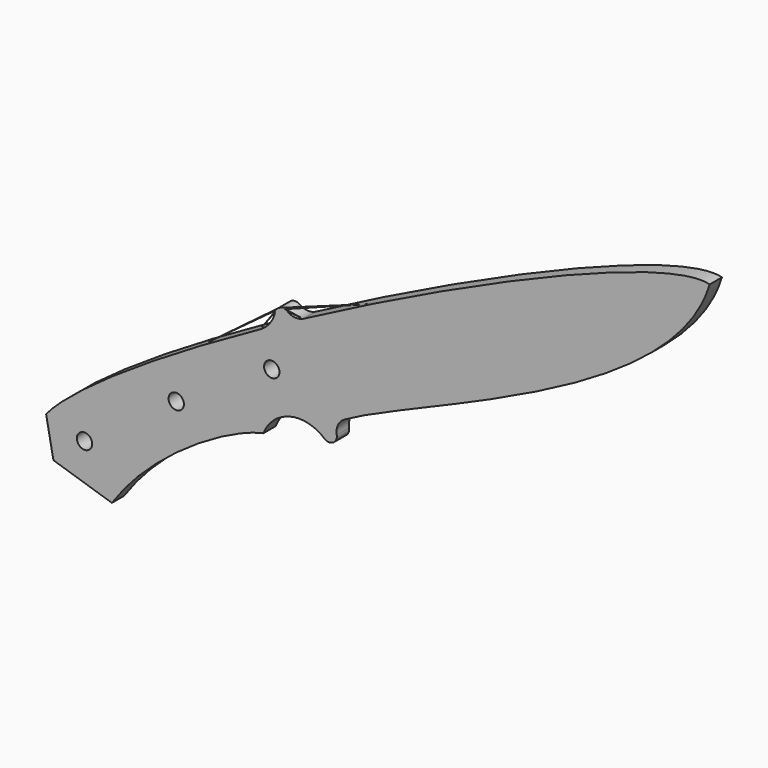
from build123d import *

# Parameters (mm, degrees)
F2_DEPTH = 6.35
F3_R     = 3.175
F4_DEPTH = 6.351


with BuildPart() as f2:
    # F1 (on Front) → F2 (new body)
    with BuildSketch(Plane.XZ):
        with BuildLine():
            add(Edge.make_bspline(
                [(6.055434, -26.960964), (36.11994, -9.76876), (142.355109, 21.639892), (157.20883, 71.411878)],
                knots=[6.343497, 6.343497, 6.343497, 6.343497, 183.773328, 183.773328, 183.773328, 183.773328], degree=3))
            add(Edge.make_bspline(
                [(157.20883, 71.411878), (140.229825, 76.100313), (59.48711, 41.521585), (-10.778349, 4.286915)],
                knots=[0, 0, 0, 0, 180.643576, 180.643576, 180.643576, 180.643576], degree=3))
            add(Edge.make_bspline(
                [(-10.778349, 4.286915), (-16.87327, 1.05713), (-22.889359, -2.192639), (-28.778164, -5.438497)],
                knots=[180.643576, 180.643576, 180.643576, 180.643576, 196.312844, 196.312844, 196.312844, 196.312844], degree=3))
            add(Edge.make_bspline(
                [(-28.778164, -5.438497), (-70.206457, -28.273415), (-105.335108, -50.91478), (-117.293463, -65.042991)],
                knots=[196.312844, 196.312844, 196.312844, 196.312844, 306.547615, 306.547615, 306.547615, 306.547615], degree=3))
            Line((-117.293463, -65.042991), (-114.262126, -80.902003))
            Line((-114.262126, -80.902003), (-90.068042, -88.572152))
            add(Edge.make_bspline(
                [(-90.068042, -88.572152), (-73.63602, -64.229396), (-41.701322, -45.705485), (-27.396359, -42.834848)],
                knots=[0, 0, 0, 0, 77.586345, 77.586345, 77.586345, 77.586345], degree=3))
            ThreePointArc((-27.396359, -42.834848), (-16.306206, -33.145092), (-2.016447, -36.706783))
            Line((-2.016447, -36.706783), (-2.007486, -36.692901))
            ThreePointArc((-2.007486, -36.692901), (1.519559, -36.7814), (2.950716, -33.556547))
            ThreePointArc((2.950716, -33.556547), (3.46235, -29.768859), (6.055434, -26.960964))
        make_face()
        with BuildLine():
            add(Edge.make_bspline(
                [(-10.778349, 4.286915), (-16.87327, 1.05713), (-22.889359, -2.192639), (-28.778164, -5.438497)],
                knots=[180.643576, 180.643576, 180.643576, 180.643576, 196.312844, 196.312844, 196.312844, 196.312844], degree=3))
            ThreePointArc((-10.778349, 4.286915), (-14.175572, 3.561969), (-17.44593, 4.733046))
            ThreePointArc((-17.44593, 4.733046), (-20.505455, 5.133112), (-22.537804, 2.811411))
            ThreePointArc((-22.537804, 2.811411), (-24.779979, -1.97768), (-28.778164, -5.438497))
        make_face()
    extrude(amount=F2_DEPTH)

    # F3 (on Front) + F2_face (on face) → F4 (cut, through all)
    with BuildSketch(Plane.XZ):
        with Locations((-101.384849, -69.758254)):
            Circle(F3_R)
        with Locations((-63.452638, -42.958295)):
            Circle(F3_R)
        with Locations((-23.929693, -18.416649)):
            Circle(F3_R)
    with BuildSketch(Plane(origin=(16.779727, -6.35, -3.819099), x_dir=(1, 0, 0), z_dir=(0, -1, 0))):
        with BuildLine():
            ThreePointArc((-13.829011, -29.737449), (-13.317377, -25.94976), (-10.724293, -23.141866))
            add(Edge.make_bspline(
                [(-10.724293, -23.141866), (19.340213, -5.949661), (125.575382, 25.458991), (140.429103, 75.230977)],
                knots=[6.343497, 6.343497, 6.343497, 6.343497, 183.773328, 183.773328, 183.773328, 183.773328], degree=3))
            add(Edge.make_bspline(
                [(140.429103, 75.230977), (123.450098, 79.919412), (42.707383, 45.340683), (-27.558076, 8.106014)],
                knots=[0, 0, 0, 0, 180.643576, 180.643576, 180.643576, 180.643576], degree=3))
            ThreePointArc((-27.558076, 8.106014), (-30.955298, 7.381068), (-34.225657, 8.552144))
            ThreePointArc((-34.225657, 8.552144), (-37.285181, 8.952211), (-39.317531, 6.630509))
            ThreePointArc((-39.317531, 6.630509), (-41.559706, 1.841419), (-45.55789, -1.619399))
            add(Edge.make_bspline(
                [(-45.55789, -1.619399), (-86.986184, -24.454316), (-122.114835, -47.095681), (-134.07319, -61.223893)],
                knots=[196.312844, 196.312844, 196.312844, 196.312844, 306.547615, 306.547615, 306.547615, 306.547615], degree=3))
            Line((-134.07319, -61.223893), (-131.041853, -77.082904))
            Line((-131.041853, -77.082904), (-106.847769, -84.753053))
            add(Edge.make_bspline(
                [(-106.847769, -84.753053), (-90.415747, -60.410298), (-58.481049, -41.886386), (-44.176085, -39.015749)],
                knots=[0, 0, 0, 0, 77.586345, 77.586345, 77.586345, 77.586345], degree=3))
            ThreePointArc((-44.176085, -39.015749), (-33.085933, -29.325993), (-18.796174, -32.887684))
            Line((-18.796174, -32.887684), (-18.787213, -32.873803))
            ThreePointArc((-18.787213, -32.873803), (-15.260168, -32.962301), (-13.829011, -29.737449))
        make_face()
    extrude(amount=F4_DEPTH, mode=Mode.SUBTRACT)


solid = f2.part
